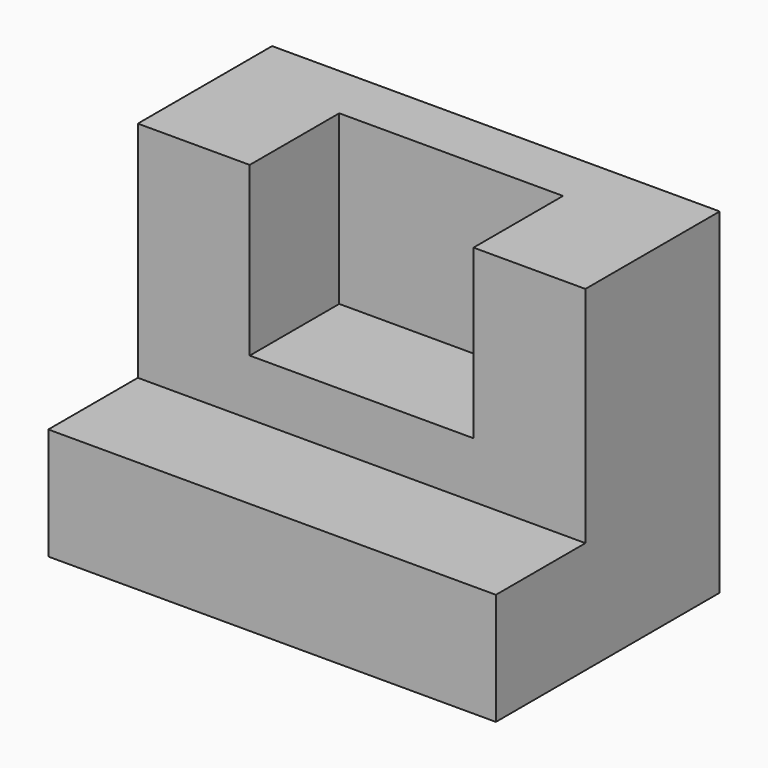
from build123d import *

# Parameters (mm, degrees)
F1_DEPTH = 101.6
F2_W     = 50.8
F2_H     = 38.1
F3_DEPTH = 25.4


with BuildPart() as f1:
    # F0 (on Right) → F1 (new body)
    with BuildSketch(Plane.YZ):
        Polygon((57.907338, -47.505174), (57.907338, 28.694826), (19.807338, 28.694826), (19.807338, -22.105174), (-5.592662, -22.105174), (-5.592662, -47.505174), align=None)
    extrude(amount=-F1_DEPTH)

    # F2 (on face) → F3 (cut)
    with BuildSketch(Plane.XZ.offset(-19.807338)):
        with Locations((-50.8, 9.644826)):
            Rectangle(F2_W, F2_H)
    extrude(amount=-F3_DEPTH, mode=Mode.SUBTRACT)


solid = f1.part
